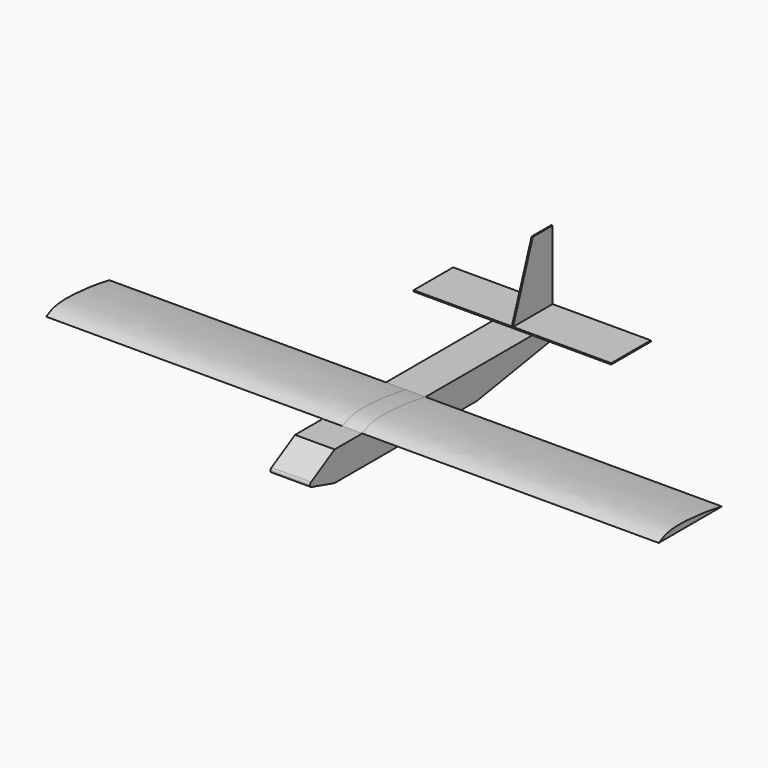
from build123d import *

# Parameters (mm, degrees)
F1_DEPTH      = 50.8
F1_DEPTH_BACK = 50.8
F3_DEPTH      = 762
F3_DEPTH_BACK = 50.8
F4_DEPTH      = 762
F6_DEPTH      = 3.175
F8_DEPTH      = 1.5875
F8_DEPTH_BACK = 1.5875


with BuildPart() as f1:
    # F0 (on Right) → F1 (new body, two sides)
    with BuildSketch(Plane.YZ) as f1_sk:
        Polygon((381, 38.1), (-381, 38.1), (-381, -38.1), (76.2, -38.1), (381, 12.7), align=None)
        with BuildLine():
            Line((-381, -38.1), (-381, 38.1))
            Line((-381, 38.1), (-456.8131431755, -5.2217961003))
            ThreePointArc((-456.8131431755, -5.2217961003), (-459.966673464, -11.4979806695), (-455.407140079, -16.8408171203))
            Line((-455.407140079, -16.8408171203), (-381, -38.1))
        make_face()
    extrude(amount=F1_DEPTH)
    extrude(f1_sk.sketch, amount=-F1_DEPTH_BACK)

    # F2 (on face) → F3 (join, two sides)
    with BuildSketch(Plane.YZ.offset(50.8)) as f3_sk:
        with BuildLine():
            add(Edge.make_bspline(
                [(-292.1, 38.1), (-281.1949449618, 43.4993048445), (-250.7339826465, 61.3466214867), (-133.004817435, 46.9623463878), (-88.9, 38.1)],
                knots=[0, 0, 0, 0, 0.343873239, 1, 1, 1, 1], degree=3))
            Line((-292.1, 38.1), (-88.9, 38.1))
        make_face()
    extrude(amount=F3_DEPTH)
    extrude(f3_sk.sketch, amount=-F3_DEPTH_BACK)

    # F4 (add): a face of the model
    f4_faces = [f1.faces().sort_by_distance(p)[0] for p in [
        (0, -202.4475287343, 44.07819993),
    ]]
    extrude(f4_faces, amount=F4_DEPTH)

    # F5 (on face) → F6 (join)
    with BuildSketch(Plane.XY.offset(38.1)):
        Polygon((-254, 254), (0, 254), (254, 254), (254, 381), (0, 381), (-254, 381), align=None)
    extrude(amount=F6_DEPTH)

    # F7 (on Right) → F8 (join, two sides)
    with BuildSketch(Plane.YZ) as f8_sk:
        Polygon((317.5, 219.075), (254, 41.275), (381, 41.275), (381, 219.075), align=None)
    extrude(amount=F8_DEPTH)
    extrude(f8_sk.sketch, amount=-F8_DEPTH_BACK)


solid = f1.part
